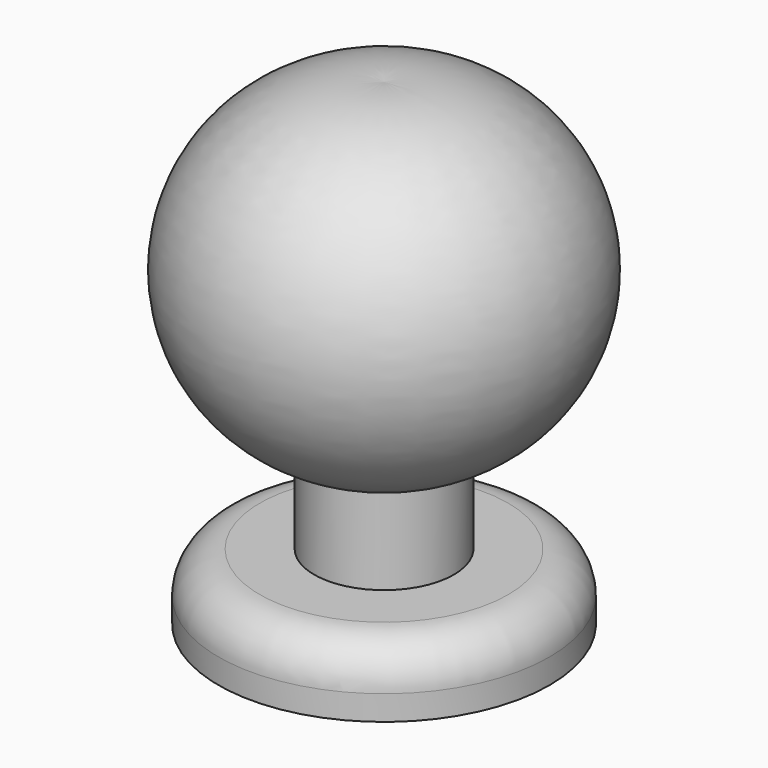
from build123d import *

# Parameters (mm, degrees)
F0_R     = 20
F1_DEPTH = 8
F4_R     = 5
F5_R     = 3
F6_DEPTH = 25


with BuildPart() as f1:
    # F0 (on Top) → F1 (new body)
    with BuildSketch(Plane.XY):
        Circle(F0_R)
    extrude(amount=F1_DEPTH)

    # F2 (on Front) → F3 (revolve)
    with BuildSketch(Plane.XZ):
        with BuildLine():
            Line((0, 57.679598), (0, 7.679598))
            Line((0, 7.679598), (8.437457, 7.748066))
            Line((8.437457, 7.748066), (8.437457, 18.658496))
            ThreePointArc((8.437457, 18.658496), (21.810602, 41.972904), (0, 57.679598))
        make_face()
    revolve(axis=Axis((0, 0, 32.679598), (0, 0, 1)))

    # F4
    f4_edges = [f1.edges().sort_by_distance(p)[0] for p in [
        (-20, 0, 8),
    ]]
    fillet(f4_edges, radius=F4_R)

    # F5 (on face) → F6 (cut)
    with BuildSketch(Plane(origin=(0, 0, 0), x_dir=(1, 0, 0), z_dir=(0, 0, -1))):
        Circle(F5_R)
    extrude(amount=-F6_DEPTH, mode=Mode.SUBTRACT)


solid = f1.part
